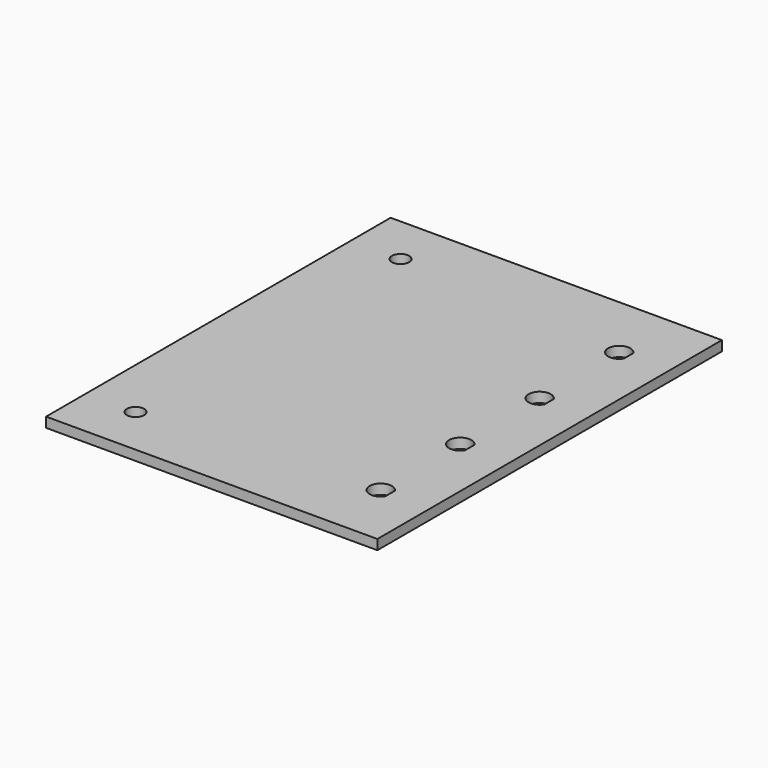
from build123d import *

# Parameters (mm, degrees)
F0_W     = 100
F0_H     = 130
F1_DEPTH = 3
F2_R     = 2.6
F3_DEPTH = 3.001
F4_R     = 3.35
F5_DEPTH = 3.001
F6_W     = 130
F6_H     = 3
F7_DEPTH = 12.15


with BuildPart() as f1:
    # F0 (on Top) → F1 (new body)
    with BuildSketch(Plane.XY):
        with Locations((-6.249699, 8.659933)):
            Rectangle(F0_W, F0_H)
    extrude(amount=F1_DEPTH)

    # F2 (on face) → F3 (cut, through all)
    with BuildSketch(Plane.XY.offset(3)):
        with Locations((-41.249699, -41.340067)):
            Circle(F2_R)
        with Locations((-41.249699, 58.659933)):
            Circle(F2_R)
    extrude(amount=-F3_DEPTH, mode=Mode.SUBTRACT)

    # F4 (on face) → F5 (cut, through all)
    with BuildSketch(Plane.XY.offset(3)):
        with Locations((28.750301, -36.340067)):
            Circle(F4_R)
        with Locations((28.750301, -6.340067)):
            Circle(F4_R)
        with Locations((28.750301, 23.659933)):
            Circle(F4_R)
        with Locations((28.750301, 53.659933)):
            Circle(F4_R)
    extrude(amount=-F5_DEPTH, mode=Mode.SUBTRACT)

    # F6 (on face) → F7 (join)
    with BuildSketch(Plane.YZ.offset(43.750301)):
        with Locations((8.659933, 1.5)):
            Rectangle(F6_W, F6_H)
    extrude(amount=-F7_DEPTH)


solid = f1.part
